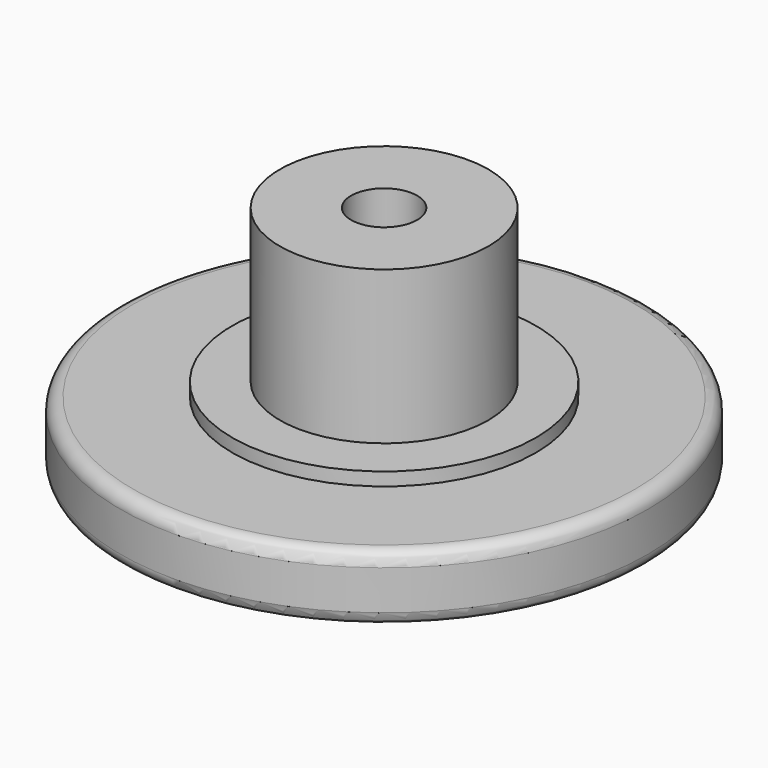
from build123d import *

# Parameters (mm, degrees)
F0_R     = 10
F0_R_2   = 1.25
F1_DEPTH = 2.5
F2_R     = 3.95
F2_R_2   = 1.25
F3_DEPTH = 6.3
F2_R_3   = 5.75
F4_DEPTH = 0.5
F5_R     = 0.5


with BuildPart() as f1:
    # F0 (on Top) → F1 (new body)
    with BuildSketch(Plane.XY):
        Circle(F0_R)
        Circle(F0_R_2, mode=Mode.SUBTRACT)
    extrude(amount=F1_DEPTH)

    # F2 (on face) → F3 (join)
    with BuildSketch(Plane.XY.offset(2.5)):
        Circle(F2_R)
        Circle(F2_R_2, mode=Mode.SUBTRACT)
    extrude(amount=F3_DEPTH)

    # F2 (on face) → F4 (join)
    with BuildSketch(Plane.XY.offset(2.5)):
        Circle(F2_R_3)
        Circle(F2_R, mode=Mode.SUBTRACT)
    extrude(amount=F4_DEPTH)

    # F5
    f5_edges = [f1.edges().sort_by_distance(p)[0] for p in [
        (-10, 0, 0),
        (-10, 0, 2.5),
    ]]
    fillet(f5_edges, radius=F5_R)


solid = f1.part
